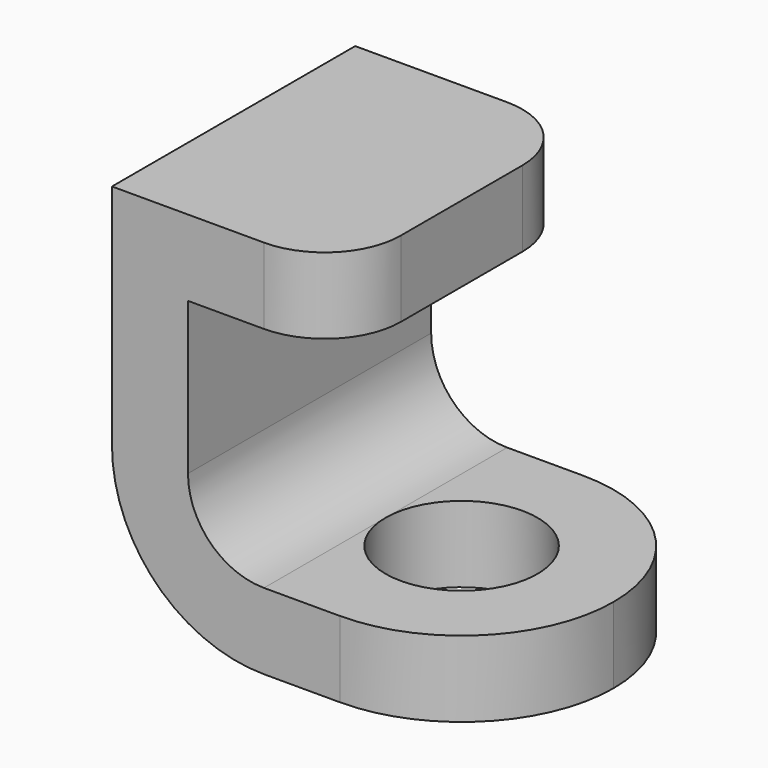
from build123d import *

# Parameters (mm, degrees)
PAD_DEPTH    = 40
SKETCH001_R  = 10
POCKET_DEPTH = 10.001
FILLET_R     = 10
FILLET001_R  = 19.999


with BuildPart() as part:
    # Sketch → Pad (new body)
    with BuildSketch(Plane.XZ):
        with BuildLine():
            Line((-20, 50), (-20, 20))
            ThreePointArc((-20, 20), (-14.142136, 5.857864), (0, 0))
            Line((0, 0), (30, 0))
            Line((30, 0), (30, 10))
            Line((30, 10), (0, 10))
            ThreePointArc((-10, 20), (-7.071068, 12.928932), (0, 10))
            Line((-10, 20), (-10, 40))
            Line((-10, 40), (10, 40))
            Line((10, 40), (10, 50))
            Line((10, 50), (-20, 50))
        make_face()
    extrude(amount=PAD_DEPTH)

    # Sketch001 (on Face9 of Pad) → Pocket (cut, through all)
    with BuildSketch(Plane(origin=(0, 0, 10), x_dir=(-1, 0, 0), z_dir=(0, 0, 1))):
        with Locations((-10, 20)):
            Circle(SKETCH001_R)
    extrude(amount=-POCKET_DEPTH, mode=Mode.SUBTRACT)

    # Fillet
    fillet_edges = [part.edges().sort_by_distance(p)[0] for p in [
        (10, -40, 45),
        (10, 0, 45),
    ]]
    fillet(fillet_edges, radius=FILLET_R)

    # Fillet001
    fillet001_edges = [part.edges().sort_by_distance(p)[0] for p in [
        (30, -40, 5),
        (30, 0, 5),
    ]]
    fillet(fillet001_edges, radius=FILLET001_R)


solid = part.part
